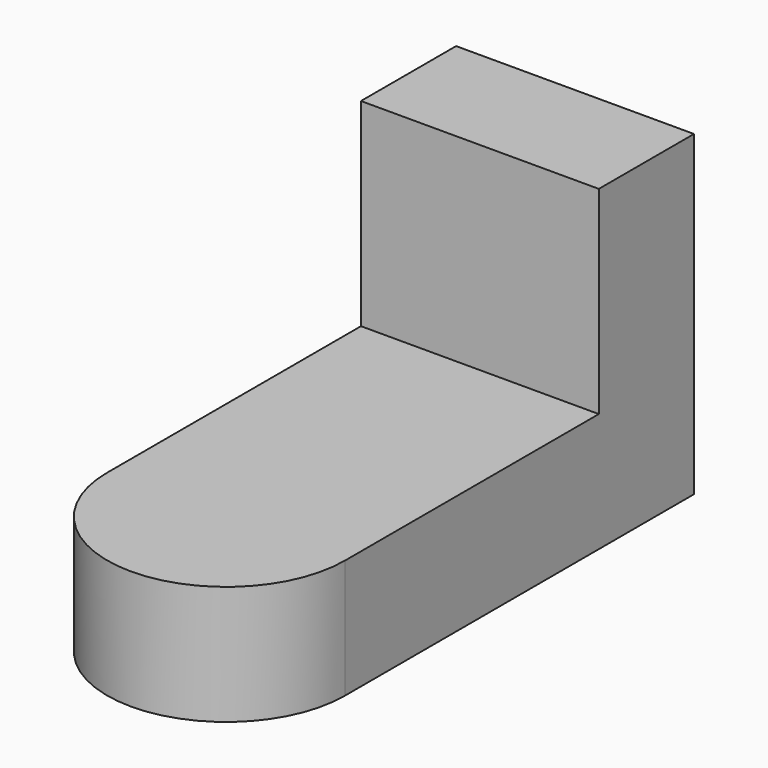
from build123d import *

# Parameters (mm, degrees)
F1_DEPTH = 40
F3_DEPTH = 25


with BuildPart() as f1:
    # F0 (on Top) → F1 (new body)
    with BuildSketch(Plane.XY):
        with BuildLine():
            Line((15, -20), (15, 35))
            Line((15, 35), (-15, 35))
            Line((-15, 35), (-15, -20))
            ThreePointArc((-15, -20), (-10.6066017178, -30.6066017178), (0, -35))
            ThreePointArc((0, -35), (10.6066017178, -30.6066017178), (15, -20))
        make_face()
    extrude(amount=F1_DEPTH)

    # F2 (on face) → F3 (cut)
    with BuildSketch(Plane.XY.offset(40)):
        with BuildLine():
            Line((15, 20), (-15, 20))
            Line((-15, 20), (-15, -20))
            ThreePointArc((-15, -20), (0, -35), (15, -20))
            Line((15, -20), (15, 20))
        make_face()
    extrude(amount=-F3_DEPTH, mode=Mode.SUBTRACT)


solid = f1.part
